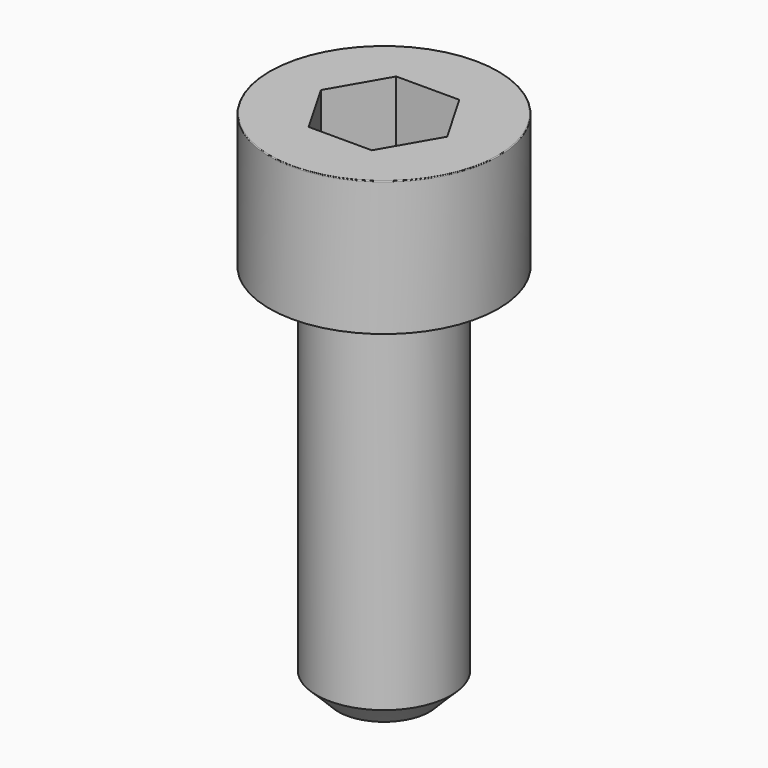
from build123d import *

# Parameters (mm, degrees)
POCKET_DEPTH = 4.06


with BuildPart() as part:
    # Sketch → Revolve (revolve)
    with BuildSketch(Plane.YZ):
        with BuildLine():
            Line((2.499, 0), (4.25, 0))
            Line((4.25, 0), (4.25, 4.97229))
            ThreePointArc((4.25, 4.97229), (4.241884, 4.991884), (4.22229, 5))
            Line((4.22229, 5), (0, 5))
            Line((0, -14), (0, 5))
            Line((1.7, -14), (0, -14))
            Line((2.5, -13.2), (1.7, -14))
            Line((2.5, -0.2), (2.5, -13.2))
            Line((2.499, 0), (2.5, -0.2))
        make_face()
    revolve(axis=Axis((0, 0, 0), (0, 0, 1)))

    # Sketch001 → Pocket (cut)
    with BuildSketch(Plane.XY.offset(5)):
        Polygon((2.344042, 0), (1.172021, 2.03), (-1.172021, 2.03), (-2.344042, 0), (-1.172021, -2.03), (1.172021, -2.03), align=None)
    extrude(amount=-POCKET_DEPTH, mode=Mode.SUBTRACT)


solid = part.part
